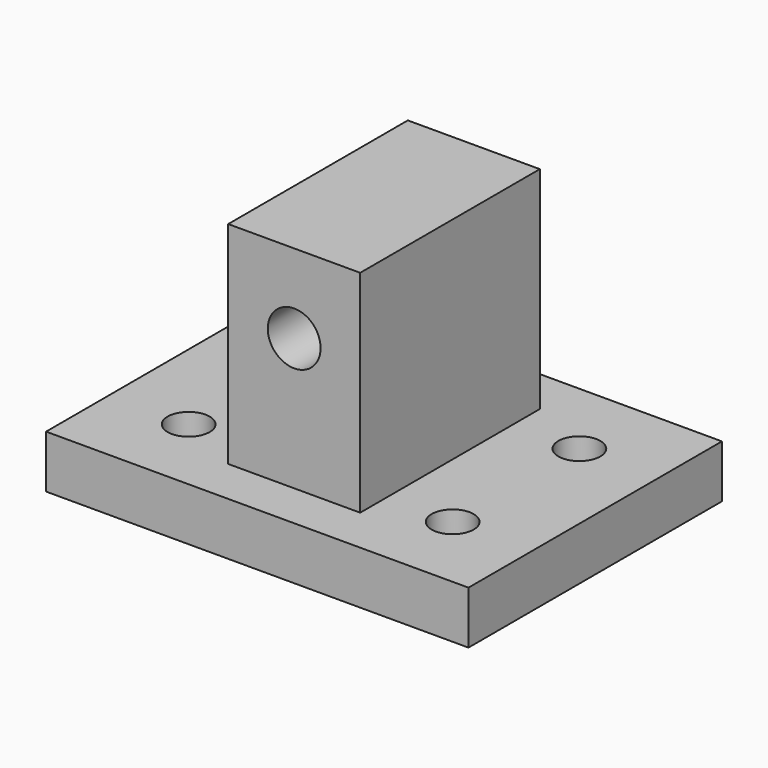
from build123d import *

# Parameters (mm, degrees)
F0_W     = 50.8
F0_H     = 38.1
F1_DEPTH = 6.35
F2_W     = 15.875
F2_H     = 27
F3_DEPTH = 25.4
F4_R     = 3.175
F5_DEPTH = 32.551
F7_D     = 5.0546


with BuildPart() as f1:
    # F0 (on Top) → F1 (new body)
    with BuildSketch(Plane.XY):
        Rectangle(F0_W, F0_H)
    extrude(amount=F1_DEPTH)

    # F2 (on face) → F3 (join)
    with BuildSketch(Plane.XY.offset(6.35)):
        Rectangle(F2_W, F2_H)
    extrude(amount=F3_DEPTH)

    # F4 (on face) → F5 (cut, through all)
    with BuildSketch(Plane.XZ.offset(13.5)):
        with Locations((0, 22.225)):
            Circle(F4_R)
    extrude(amount=-F5_DEPTH, mode=Mode.SUBTRACT)

    # F7 (through all)
    with Locations(Plane.XY.offset(6.35)):
        with Locations((-15.875, 9.525), (-15.875, -9.525), (15.875, 9.525), (15.875, -9.525)):
            Hole(F7_D / 2)


solid = f1.part
